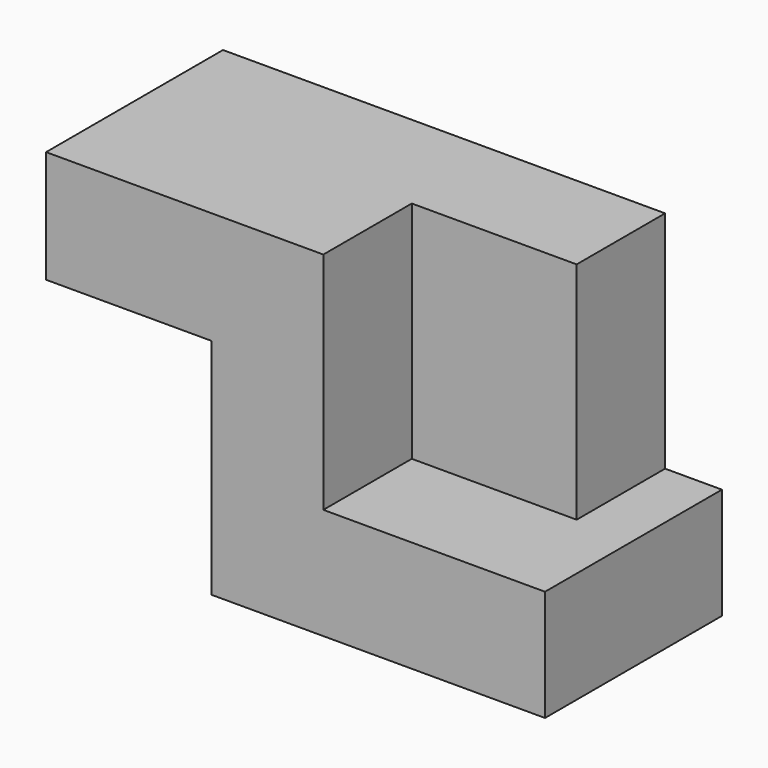
from build123d import *

# Parameters (mm, degrees)
F1_DEPTH = 50.8
F0_W     = 37.8770716488
F0_H     = 51.6376609448
F2_DEPTH = 25.4


with BuildPart() as f1:
    # F0 (on Front) → F1 (new body)
    with BuildSketch(Plane.XZ):
        Polygon((0, 48.2329800725), (-63.6959075928, 48.2329800725), (-63.6959075928, 22.4141478539), (-25.6769675761, 22.4141478539), (-25.6769675761, -28.9397872984), (50.9283542633, -28.9397872984), (50.9283542633, -3.4046808723), (37.8770716488, -3.4046808723), (0, -3.4046808723), align=None)
    extrude(amount=F1_DEPTH)

    # F0 (on Front) → F2 (join)
    with BuildSketch(Plane.XZ):
        with Locations((18.9385358244, 22.4141496001)):
            Rectangle(F0_W, F0_H)
    extrude(amount=F2_DEPTH)


solid = f1.part
